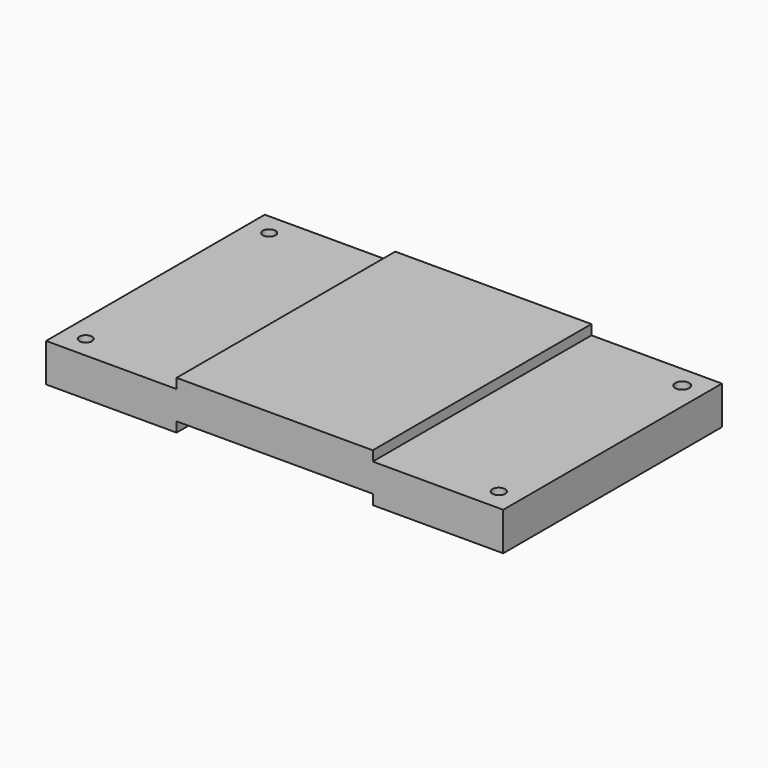
from build123d import *

# Parameters (mm, degrees)
F1_DEPTH = 41.48
F3_R     = 1.905958
F3_R_2   = 1.916634
F3_R_3   = 2.135815
F3_R_4   = 1.947529
F4_DEPTH = 14.94211


with BuildPart() as f1:
    # F0 (on Front) → F1 (new body, symmetric)
    with BuildSketch(Plane.XZ):
        Polygon((29.77, 2.79489), (29.77, 5.81), (-29.77, 5.81), (-29.77, 2.79489), (-69.37, 2.79489), (-69.37, -8.84511), (-29.77, -8.84511), (-29.77, -5.81), (29.77, -5.81), (29.77, -8.84511), (69.37, -8.84511), (69.37, 2.79489), align=None)
    extrude(amount=F1_DEPTH, both=True)

    # F3 (on offset) → F4 (cut, through all)
    with BuildSketch(Plane.XY.offset(6.096)):
        with Locations((-62.68, -34.79)):
            Circle(F3_R)
        with Locations((-62.68, 34.79)):
            Circle(F3_R_2)
        with Locations((62.68, 34.79)):
            Circle(F3_R_3)
        with Locations((62.68, -34.79)):
            Circle(F3_R_4)
    extrude(amount=-F4_DEPTH, mode=Mode.SUBTRACT)


solid = f1.part
